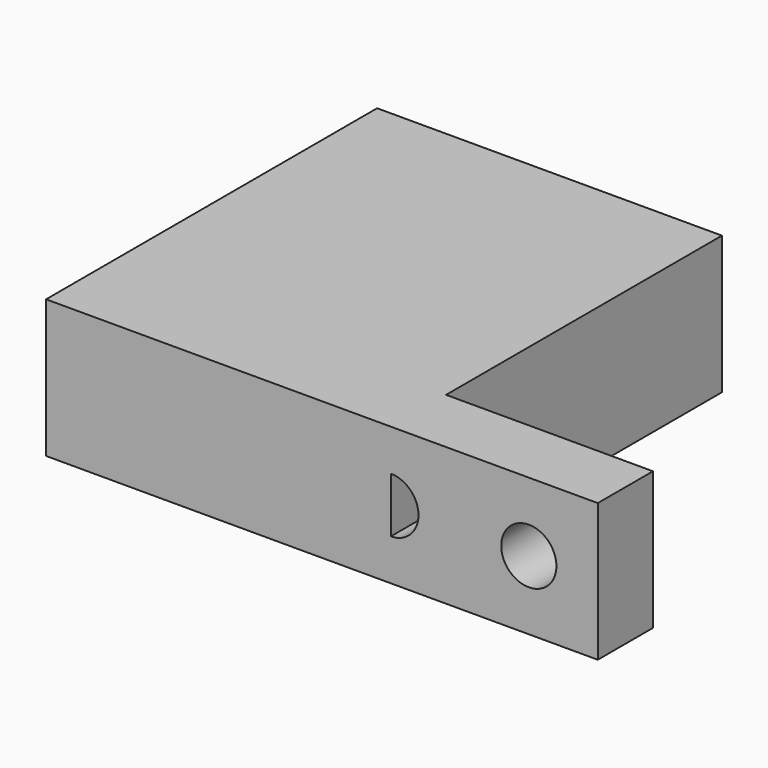
from build123d import *

# Parameters (mm, degrees)
F0_W     = 40
F0_H     = 10
F0_R     = 2
F1_DEPTH = 5
F2_W     = 25
F2_H     = 30
F3_DEPTH = 10


with BuildPart() as f1:
    # F0 (on Front) → F1 (new body)
    with BuildSketch(Plane.XZ):
        Rectangle(F0_W, F0_H)
        with Locations((5, 0)):
            Circle(F0_R, mode=Mode.SUBTRACT)
        with Locations((15, 0)):
            Circle(F0_R, mode=Mode.SUBTRACT)
    extrude(amount=F1_DEPTH)

    # F2 (on face) → F3 (join)
    with BuildSketch(Plane.XY.offset(5)):
        with Locations((-7.5, 10)):
            Rectangle(F2_W, F2_H)
    extrude(amount=-F3_DEPTH)


solid = f1.part
